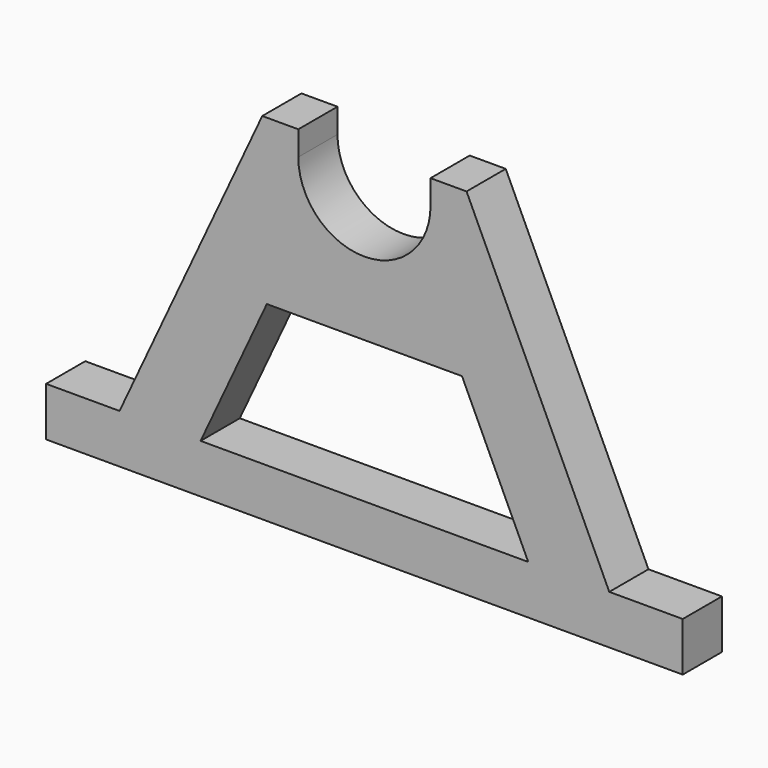
from build123d import *

# Parameters (mm, degrees)
F2_DEPTH = 20


with BuildPart() as f2:
    # F1 (on Front) → F2 (new body)
    with BuildSketch(Plane.XZ):
        with BuildLine():
            Line((-130, 20), (-130, 0))
            Line((-130, 0), (130, 0))
            Line((130, 0), (130, 20))
            Line((130, 20), (100, 20))
            Line((100, 20), (41.711543, 145))
            Line((41.711543, 145), (27, 145))
            Line((27, 145), (27, 135))
            ThreePointArc((27, 135), (0, 108), (-27, 135))
            Line((-27, 135), (-27, 145))
            Line((-27, 145), (-41.711543, 145))
            Line((-41.711543, 145), (-100, 20))
            Line((-100, 20), (-130, 20))
        make_face()
        Polygon((66.898662, 20), (-66.898662, 20), (-39.852818, 78), (39.852818, 78), align=None, mode=Mode.SUBTRACT)
    extrude(amount=F2_DEPTH)


solid = f2.part
